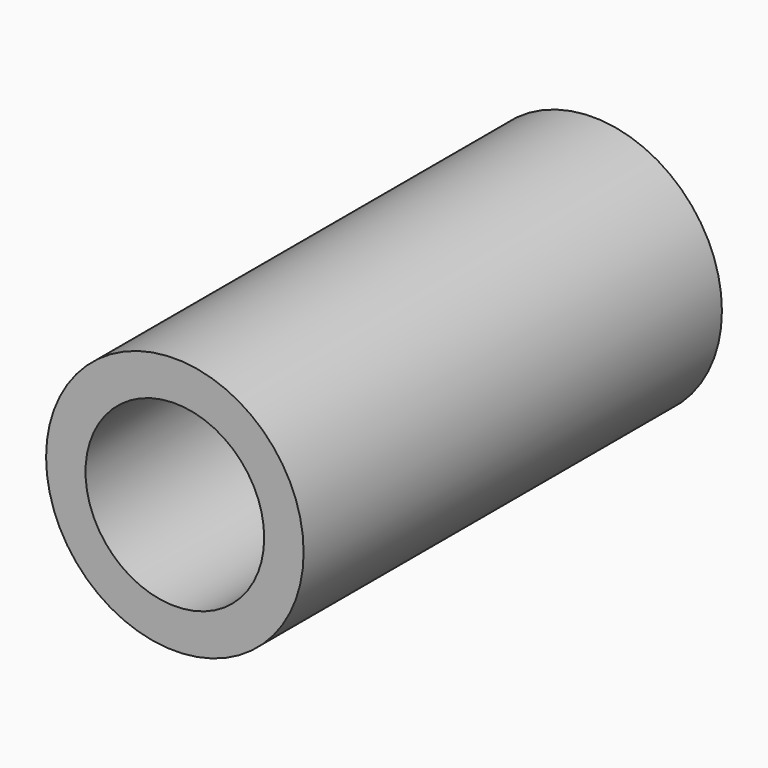
from build123d import *

# Parameters (mm, degrees)
F0_R     = 25
F1_DEPTH = 101.516215
F2_R     = 12.537375
F3_DEPTH = 50.175298
F4_R     = 17.345537
F5_DEPTH = 56.003423


with BuildPart() as f1:
    # F0 (on Front) → F1 (new body)
    with BuildSketch(Plane.XZ):
        Circle(F0_R)
    extrude(amount=F1_DEPTH)

    # F2 (on face) → F3 (cut)
    with BuildSketch(Plane(origin=(0, 0, 0), x_dir=(-1, 0, 0), z_dir=(0, 1, 0))):
        Circle(F2_R)
    extrude(amount=-F3_DEPTH, mode=Mode.SUBTRACT)

    # F4 (on face) → F5 (cut)
    with BuildSketch(Plane.XZ.offset(101.516215)):
        Circle(F4_R)
    extrude(amount=-F5_DEPTH, mode=Mode.SUBTRACT)


solid = f1.part
